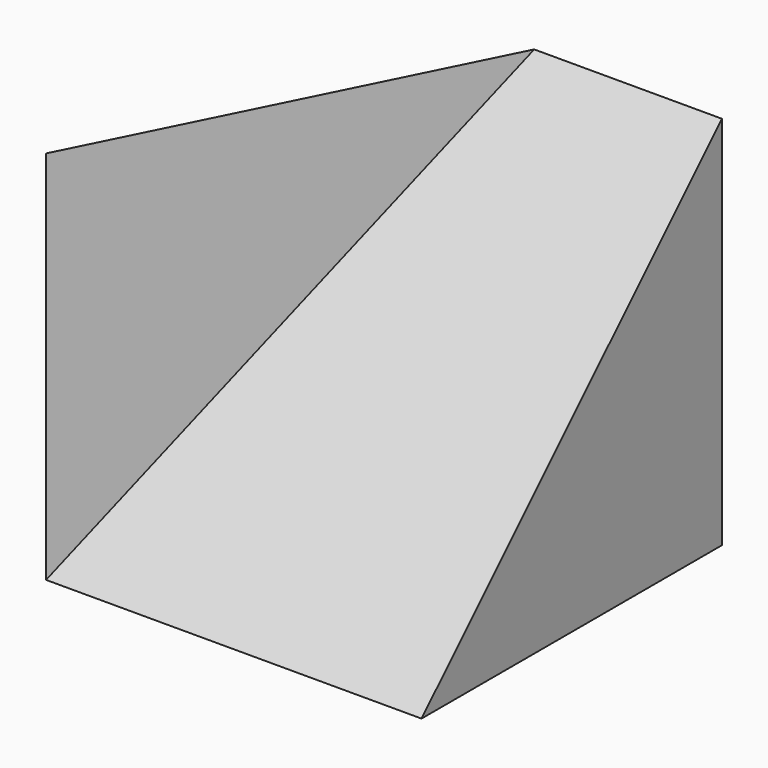
from build123d import *

# Parameters (mm, degrees)
F1_DEPTH = 40
F3_DEPTH = 40
F6_DEPTH = 16.3309316186


with BuildPart() as f1:
    # F0 (on Right) → F1 (new body)
    with BuildSketch(Plane.YZ):
        Polygon((40, 40), (0, 0), (40, 0), align=None)
    extrude(amount=F1_DEPTH)

    # F2 (on face) → F3 (join)
    with BuildSketch(Plane(origin=(0, 0, 0), x_dir=(1, 0, 0), z_dir=(0, 0, -1))):
        Polygon((20, -40), (0, 0), (0, -40), align=None)
    extrude(amount=-F3_DEPTH)

    # F5 (on 3pt) → F6 (cut, through all)
    with BuildSketch(Plane(origin=(-13.3333333333, 6.6666666667, 6.6666666667), x_dir=(0.3651483717, 0.9128709292, -0.1825741858), z_dir=(0.8164965809, -0.4082482905, -0.4082482905))):
        Polygon((36.514837167, 0), (36.514837167, 44.72135955), (-7.3029674334, 35.77708764), align=None)
    extrude(amount=-F6_DEPTH, mode=Mode.SUBTRACT)


solid = f1.part
